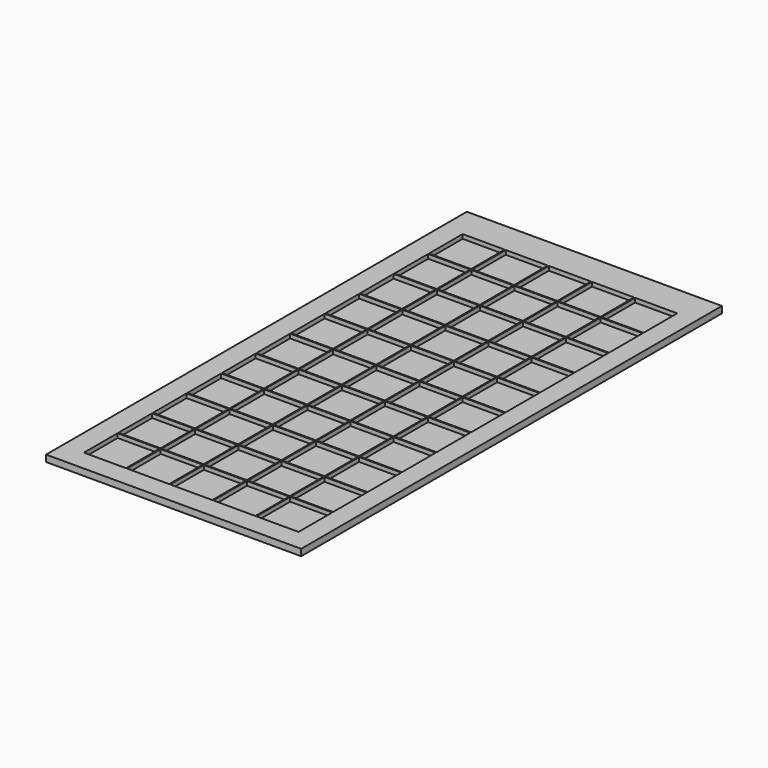
from build123d import *

# Parameters (mm, degrees)
F0_W     = 485
F0_H     = 1000
F1_DEPTH = 12.5
F3_W     = 80
F3_H     = 80
F4_DEPTH = 8


with BuildPart() as f1:
    # F0 (on Top) → F1 (new body)
    with BuildSketch(Plane.XY):
        with Locations((-208.3850729465, 450.7917761803)):
            Rectangle(F0_W, F0_H)
    extrude(amount=F1_DEPTH)

    # F3 (on face) → F4 (cut)
    with BuildSketch(Plane.XY.offset(12.5)):
        with Locations((-370.8850729465, 30.7917761803)):
            Rectangle(F3_W, F3_H)
        with Locations((-370.8850729465, 112.7917761803)):
            Rectangle(F3_W, F3_H)
        with Locations((-370.8850729465, 194.7917761803)):
            Rectangle(F3_W, F3_H)
        with Locations((-370.8850729465, 276.7917761803)):
            Rectangle(F3_W, F3_H)
        with Locations((-370.8850729465, 358.7917761803)):
            Rectangle(F3_W, F3_H)
        with Locations((-370.8850729465, 440.7917761803)):
            Rectangle(F3_W, F3_H)
        with Locations((-370.8850729465, 522.7917761803)):
            Rectangle(F3_W, F3_H)
        with Locations((-370.8850729465, 604.7917761803)):
            Rectangle(F3_W, F3_H)
        with Locations((-370.8850729465, 686.7917761803)):
            Rectangle(F3_W, F3_H)
        with Locations((-370.8850729465, 768.7917761803)):
            Rectangle(F3_W, F3_H)
        with Locations((-370.8850729465, 850.7917761803)):
            Rectangle(F3_W, F3_H)
        with Locations((-288.8850729465, 30.7917761803)):
            Rectangle(F3_W, F3_H)
        with Locations((-288.8850729465, 112.7917761803)):
            Rectangle(F3_W, F3_H)
        with Locations((-288.8850729465, 194.7917761803)):
            Rectangle(F3_W, F3_H)
        with Locations((-288.8850729465, 276.7917761803)):
            Rectangle(F3_W, F3_H)
        with Locations((-288.8850729465, 358.7917761803)):
            Rectangle(F3_W, F3_H)
        with Locations((-288.8850729465, 440.7917761803)):
            Rectangle(F3_W, F3_H)
        with Locations((-288.8850729465, 522.7917761803)):
            Rectangle(F3_W, F3_H)
        with Locations((-288.8850729465, 604.7917761803)):
            Rectangle(F3_W, F3_H)
        with Locations((-288.8850729465, 686.7917761803)):
            Rectangle(F3_W, F3_H)
        with Locations((-288.8850729465, 768.7917761803)):
            Rectangle(F3_W, F3_H)
        with Locations((-288.8850729465, 850.7917761803)):
            Rectangle(F3_W, F3_H)
        with Locations((-206.8850729465, 30.7917761803)):
            Rectangle(F3_W, F3_H)
        with Locations((-206.8850729465, 112.7917761803)):
            Rectangle(F3_W, F3_H)
        with Locations((-206.8850729465, 194.7917761803)):
            Rectangle(F3_W, F3_H)
        with Locations((-206.8850729465, 276.7917761803)):
            Rectangle(F3_W, F3_H)
        with Locations((-206.8850729465, 358.7917761803)):
            Rectangle(F3_W, F3_H)
        with Locations((-206.8850729465, 440.7917761803)):
            Rectangle(F3_W, F3_H)
        with Locations((-206.8850729465, 522.7917761803)):
            Rectangle(F3_W, F3_H)
        with Locations((-206.8850729465, 604.7917761803)):
            Rectangle(F3_W, F3_H)
        with Locations((-206.8850729465, 686.7917761803)):
            Rectangle(F3_W, F3_H)
        with Locations((-206.8850729465, 768.7917761803)):
            Rectangle(F3_W, F3_H)
        with Locations((-206.8850729465, 850.7917761803)):
            Rectangle(F3_W, F3_H)
        with Locations((-124.8850729465, 30.7917761803)):
            Rectangle(F3_W, F3_H)
        with Locations((-124.8850729465, 112.7917761803)):
            Rectangle(F3_W, F3_H)
        with Locations((-124.8850729465, 194.7917761803)):
            Rectangle(F3_W, F3_H)
        with Locations((-124.8850729465, 276.7917761803)):
            Rectangle(F3_W, F3_H)
        with Locations((-124.8850729465, 358.7917761803)):
            Rectangle(F3_W, F3_H)
        with Locations((-124.8850729465, 440.7917761803)):
            Rectangle(F3_W, F3_H)
        with Locations((-124.8850729465, 522.7917761803)):
            Rectangle(F3_W, F3_H)
        with Locations((-124.8850729465, 604.7917761803)):
            Rectangle(F3_W, F3_H)
        with Locations((-124.8850729465, 686.7917761803)):
            Rectangle(F3_W, F3_H)
        with Locations((-124.8850729465, 768.7917761803)):
            Rectangle(F3_W, F3_H)
        with Locations((-124.8850729465, 850.7917761803)):
            Rectangle(F3_W, F3_H)
        with Locations((-42.8850729465, 30.7917761803)):
            Rectangle(F3_W, F3_H)
        with Locations((-42.8850729465, 112.7917761803)):
            Rectangle(F3_W, F3_H)
        with Locations((-42.8850729465, 194.7917761803)):
            Rectangle(F3_W, F3_H)
        with Locations((-42.8850729465, 276.7917761803)):
            Rectangle(F3_W, F3_H)
        with Locations((-42.8850729465, 358.7917761803)):
            Rectangle(F3_W, F3_H)
        with Locations((-42.8850729465, 440.7917761803)):
            Rectangle(F3_W, F3_H)
        with Locations((-42.8850729465, 522.7917761803)):
            Rectangle(F3_W, F3_H)
        with Locations((-42.8850729465, 604.7917761803)):
            Rectangle(F3_W, F3_H)
        with Locations((-42.8850729465, 686.7917761803)):
            Rectangle(F3_W, F3_H)
        with Locations((-42.8850729465, 768.7917761803)):
            Rectangle(F3_W, F3_H)
        with Locations((-42.8850729465, 850.7917761803)):
            Rectangle(F3_W, F3_H)
    extrude(amount=-F4_DEPTH, mode=Mode.SUBTRACT)


solid = f1.part
